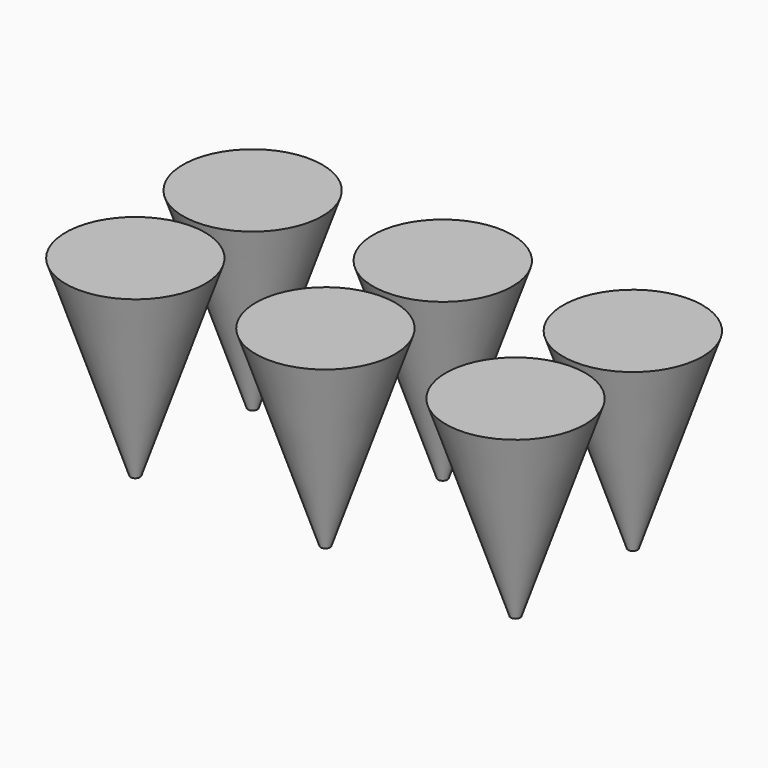
from build123d import *

# Parameters (mm, degrees)
F4_R = 1.25
F2_R = 18.5


with BuildPart() as f5:
    # F4 (on offset) → F5 section 0
    with BuildSketch(Plane.XY.offset(-50.8)):
        with Locations((-50.4644264206, 19.4644264206)):
            Circle(F4_R)
    # F2 (on Top) → F5 section 1
    with BuildSketch(Plane.XY):
        with Locations((-50.4644264206, 19.4644264206)):
            Circle(F2_R)
    loft()


with BuildPart() as f6:
    # F2 (on Top) → F6 section 0
    with BuildSketch(Plane.XY):
        with Locations((0, 19.4644264206)):
            Circle(F2_R)
    # F4 (on offset) → F6 section 1
    with BuildSketch(Plane.XY.offset(-50.8)):
        with Locations((0, 19.4644264206)):
            Circle(F4_R)
    loft()


with BuildPart() as f7:
    # F2 (on Top) → F7 section 0
    with BuildSketch(Plane.XY):
        with Locations((50.4644264206, 19.4644264206)):
            Circle(F2_R)
    # F4 (on offset) → F7 section 1
    with BuildSketch(Plane.XY.offset(-50.8)):
        with Locations((50.4644264206, 19.4644264206)):
            Circle(F4_R)
    loft()


with BuildPart() as f8:
    # F4 (on offset) → F8 section 0
    with BuildSketch(Plane.XY.offset(-50.8)):
        with Locations((50.4644264206, -19.4644264206)):
            Circle(F4_R)
    # F2 (on Top) → F8 section 1
    with BuildSketch(Plane.XY):
        with Locations((50.4644264206, -19.4644264206)):
            Circle(F2_R)
    loft()


with BuildPart() as f9:
    # F4 (on offset) → F9 section 0
    with BuildSketch(Plane.XY.offset(-50.8)):
        with Locations((0, -19.4644264206)):
            Circle(F4_R)
    # F2 (on Top) → F9 section 1
    with BuildSketch(Plane.XY):
        with Locations((0, -19.4644264206)):
            Circle(F2_R)
    loft()


with BuildPart() as f10:
    # F4 (on offset) → F10 section 0
    with BuildSketch(Plane.XY.offset(-50.8)):
        with Locations((-50.4644264206, -19.4644264206)):
            Circle(F4_R)
    # F2 (on Top) → F10 section 1
    with BuildSketch(Plane.XY):
        with Locations((-50.4644264206, -19.4644264206)):
            Circle(F2_R)
    loft()


solid = Compound([f5.part, f6.part, f7.part, f8.part, f9.part, f10.part])
